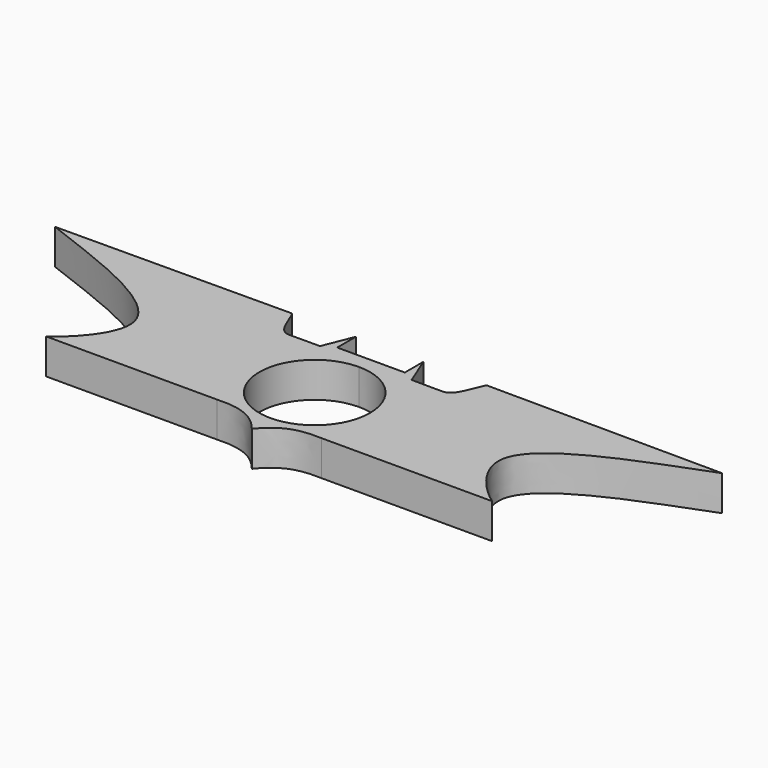
from build123d import *

# Parameters (mm, degrees)
F1_DEPTH = 7


with BuildPart() as f1:
    # F0 (on Top) → F1 (new body)
    with BuildSketch(Plane.XY):
        with BuildLine():
            Line((6.7171349792, 13.9845386147), (0, 13.9845386147))
            Line((0, 13.9845386147), (-6.7171349792, 13.9845386147))
            Line((-6.7171349792, 13.9845386147), (-6.7171349792, 18.615735254))
            Line((-6.7171349792, 18.615735254), (-9.0983088875, 12.6965663393))
            Line((-9.0983088875, 12.6965663393), (-15.3682688251, 12.6645696512))
            add(Edge.make_bspline(
                [(-15.3682688251, 12.6645696512), (-17.5863355398, 12.8373668077), (-18.2205353839, 16.6350456329), (-19.3272418318, 18.5513837016)],
                knots=[0, 0, 0, 0, 7.0942263096, 7.0942263096, 7.0942263096, 7.0942263096], degree=3))
            Line((-19.3272418318, 18.5513837016), (-66.2664719729, 18.3118447063))
            add(Edge.make_bspline(
                [(-66.2664719729, 18.3118447063), (-57.5327875442, 14.7896031158), (-26.3820560809, 5.0267987278), (-41.5786201966, -9.4824135442), (-44.3230627845, -11.3169560209)],
                knots=[0, 0, 0, 0, 0.6037449379, 1, 1, 1, 1], degree=3))
            Line((-44.3230627845, -11.3169560209), (-10.3665124625, -11.3169560209))
            add(Edge.make_bspline(
                [(-10.3665124625, -11.3169560209), (-5.44882752, -11.0437516123), (-2.5801816955, -12.4097745866), (0, -15.6222777441)],
                knots=[0, 0, 0, 0, 11.2249888987, 11.2249888987, 11.2249888987, 11.2249888987], degree=3))
            add(Edge.make_bspline(
                [(10.3665124625, -11.3169560209), (5.44882752, -11.0437516123), (2.5801816955, -12.4097745866), (0, -15.6222777441)],
                knots=[0, 0, 0, 0, 11.2249888987, 11.2249888987, 11.2249888987, 11.2249888987], degree=3))
            Line((10.3665124625, -11.3169560209), (44.3230627845, -11.3169560209))
            add(Edge.make_bspline(
                [(66.2664719729, 18.3118447063), (57.5327875442, 14.7896031158), (26.3820560809, 5.0267987278), (41.5786201966, -9.4824135442), (44.3230627845, -11.3169560209)],
                knots=[0, 0, 0, 0, 0.6037449379, 1, 1, 1, 1], degree=3))
            Line((66.2664719729, 18.3118447063), (19.3272418318, 18.5513837016))
            add(Edge.make_bspline(
                [(15.3682688251, 12.6645696512), (17.5863355398, 12.8373668077), (18.2205353839, 16.6350456329), (19.3272418318, 18.5513837016)],
                knots=[0, 0, 0, 0, 7.0942263096, 7.0942263096, 7.0942263096, 7.0942263096], degree=3))
            Line((15.3682688251, 12.6645696512), (9.0983088875, 12.6965663393))
            Line((9.0983088875, 12.6965663393), (6.7171349792, 18.615735254))
            Line((6.7171349792, 18.615735254), (6.7171349792, 13.9845386147))
        make_face()
        with BuildLine():
            ThreePointArc((0, 11), (7.7781745931, 7.7781745931), (11, 0))
            ThreePointArc((11, 0), (-7.7781745931, -7.7781745931), (0, 11))
        make_face(mode=Mode.SUBTRACT)
    extrude(amount=F1_DEPTH)


solid = f1.part
